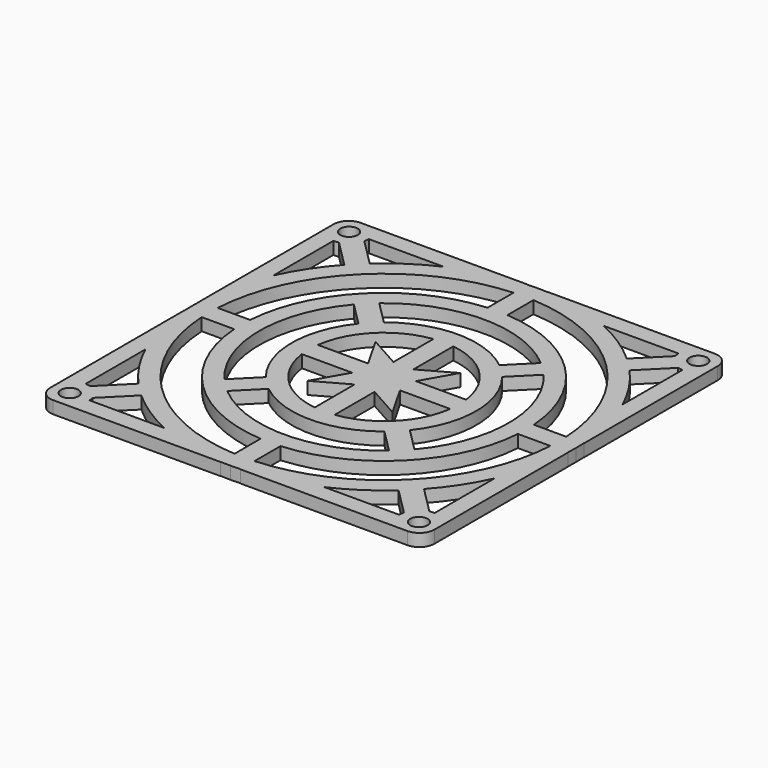
from build123d import *

# Parameters (mm, degrees)
F0_R     = 1.75
F1_DEPTH = 2.5


with BuildPart() as f1:
    # F0 (on Top) → F1 (new body)
    with BuildSketch(Plane.XY):
        with BuildLine():
            ThreePointArc((-38.5, -35.5), (-37.62132, -37.62132), (-35.5, -38.5))
            Line((-35.5, -38.5), (-2, -38.5))
            Line((-2, -38.5), (-2, -38.448017))
            ThreePointArc((-2, -38.448017), (-1.000338, -38.487002), (0, -38.5))
            ThreePointArc((0, -38.5), (1.000338, -38.487002), (2, -38.448017))
            Line((2, -38.448017), (2, -38.5))
            Line((2, -38.5), (35.5, -38.5))
            ThreePointArc((35.5, -38.5), (37.62132, -37.62132), (38.5, -35.5))
            Line((38.5, -35.5), (38.5, -2))
            Line((38.5, -2), (38.448017, -2))
            ThreePointArc((38.448017, -2), (38.487002, -1.000338), (38.5, 0))
            ThreePointArc((38.5, 0), (38.487002, 1.000338), (38.448017, 2))
            Line((38.448017, 2), (38.5, 2))
            Line((38.5, 2), (38.5, 35.5))
            ThreePointArc((38.5, 35.5), (37.62132, 37.62132), (35.5, 38.5))
            Line((35.5, 38.5), (2, 38.5))
            Line((2, 38.5), (2, 38.448017))
            ThreePointArc((2, 38.448017), (1.000338, 38.487002), (0, 38.5))
            ThreePointArc((0, 38.5), (-1.000338, 38.487002), (-2, 38.448017))
            Line((-2, 38.448017), (-2, 38.5))
            Line((-2, 38.5), (-35.5, 38.5))
            ThreePointArc((-35.5, 38.5), (-37.62132, 37.62132), (-38.5, 35.5))
            Line((-38.5, 35.5), (-38.5, 2))
            Line((-38.5, 2), (-38.448017, 2))
            ThreePointArc((-38.448017, 2), (-38.487002, 1.000338), (-38.5, 0))
            ThreePointArc((-38.5, 0), (-38.487002, -1.000338), (-38.448017, -2))
            Line((-38.448017, -2), (-38.5, -2))
            Line((-38.5, -2), (-38.5, -35.5))
        make_face()
        with Locations((-35, -35)):
            Circle(F0_R, mode=Mode.SUBTRACT)
        with BuildLine():
            Line((-16.039015, -35), (-31.045212, -35))
            ThreePointArc((-31.045212, -35), (-31.075605, -34.510637), (-31.166319, -34.028796))
            Line((-31.166319, -34.028796), (-25.754724, -28.617201))
            ThreePointArc((-25.754724, -28.617201), (-21.139162, -32.177412), (-16.039015, -35))
        make_face(mode=Mode.SUBTRACT)
        with BuildLine():
            ThreePointArc((-33.974785, -31.180408), (-34.482954, -31.079157), (-35, -31.045212))
            Line((-35, -31.045212), (-35, -16.039015))
            ThreePointArc((-35, -16.039015), (-32.164167, -21.159309), (-28.584922, -25.790545))
            Line((-28.584922, -25.790545), (-33.974785, -31.180408))
        make_face(mode=Mode.SUBTRACT)
        with BuildLine():
            Line((-2, -28.429738), (-2, -34.94281))
            ThreePointArc((-2, -34.94281), (-24.748737, -24.748737), (-34.94281, -2))
            Line((-34.94281, -2), (-28.429738, -2))
            ThreePointArc((-28.429738, -2), (-20.152543, -20.152543), (-2, -28.429738))
        make_face(mode=Mode.SUBTRACT)
        with BuildLine():
            Line((-2, -4.862478), (-2, -14.866069))
            ThreePointArc((-2, -14.866069), (-10.606602, -10.606602), (-14.866069, -2))
            Line((-14.866069, -2), (-4.794377, -2))
            Line((-4.794377, -2), (-8.49896, -8.49896))
            Line((-8.49896, -8.49896), (-2, -4.862478))
        make_face(mode=Mode.SUBTRACT)
        with BuildLine():
            ThreePointArc((-11.571705, -14.434183), (0.024219, -18.499984), (11.609459, -14.403835))
            Line((11.609459, -14.403835), (16.22518, -19.019557))
            ThreePointArc((16.22518, -19.019557), (0.024155, -24.999988), (-16.188397, -19.050874))
            Line((-16.188397, -19.050874), (-11.571705, -14.434183))
        make_face(mode=Mode.SUBTRACT)
        with BuildLine():
            Line((25.790545, -28.584922), (31.180408, -33.974785))
            ThreePointArc((31.180408, -33.974785), (31.079157, -34.482954), (31.045212, -35))
            Line((31.045212, -35), (16.039015, -35))
            ThreePointArc((16.039015, -35), (21.159309, -32.164167), (25.790545, -28.584922))
        make_face(mode=Mode.SUBTRACT)
        with Locations((35, -35)):
            Circle(F0_R, mode=Mode.SUBTRACT)
        with BuildLine():
            Line((35, -16.039015), (35, -31.045212))
            ThreePointArc((35, -31.045212), (34.510637, -31.075605), (34.028796, -31.166319))
            Line((34.028796, -31.166319), (28.617201, -25.754724))
            ThreePointArc((28.617201, -25.754724), (32.177412, -21.139162), (35, -16.039015))
        make_face(mode=Mode.SUBTRACT)
        with BuildLine():
            ThreePointArc((2, -28.429738), (20.152543, -20.152543), (28.429738, -2))
            Line((28.429738, -2), (34.94281, -2))
            ThreePointArc((34.94281, -2), (24.748737, -24.748737), (2, -34.94281))
            Line((2, -34.94281), (2, -28.429738))
        make_face(mode=Mode.SUBTRACT)
        with BuildLine():
            ThreePointArc((14.866069, -2), (10.606602, -10.606602), (2, -14.866069))
            Line((2, -14.866069), (2, -4.862478))
            Line((2, -4.862478), (8.49896, -8.49896))
            Line((8.49896, -8.49896), (4.794377, -2))
            Line((4.794377, -2), (14.866069, -2))
        make_face(mode=Mode.SUBTRACT)
        with BuildLine():
            ThreePointArc((-19.019557, -16.22518), (-25, 0), (-19.019557, 16.22518))
            Line((-19.019557, 16.22518), (-14.403835, 11.609459))
            ThreePointArc((-14.403835, 11.609459), (-18.5, 0), (-14.403835, -11.609459))
            Line((-14.403835, -11.609459), (-19.019557, -16.22518))
        make_face(mode=Mode.SUBTRACT)
        with BuildLine():
            ThreePointArc((-14.866069, 2), (-10.606602, 10.606602), (-2, 14.866069))
            Line((-2, 14.866069), (-2, 4.862478))
            Line((-2, 4.862478), (-8.49896, 8.49896))
            Line((-8.49896, 8.49896), (-4.794377, 2))
            Line((-4.794377, 2), (-14.866069, 2))
        make_face(mode=Mode.SUBTRACT)
        with BuildLine():
            ThreePointArc((-34.94281, 2), (-24.748737, 24.748737), (-2, 34.94281))
            Line((-2, 34.94281), (-2, 28.429738))
            ThreePointArc((-2, 28.429738), (-20.152543, 20.152543), (-28.429738, 2))
            Line((-28.429738, 2), (-34.94281, 2))
        make_face(mode=Mode.SUBTRACT)
        with BuildLine():
            Line((-33.974785, 31.180408), (-28.584922, 25.790545))
            ThreePointArc((-28.584922, 25.790545), (-32.164167, 21.159309), (-35, 16.039015))
            Line((-35, 16.039015), (-35, 31.045212))
            ThreePointArc((-35, 31.045212), (-34.482954, 31.079157), (-33.974785, 31.180408))
        make_face(mode=Mode.SUBTRACT)
        with Locations((-35, 35)):
            Circle(F0_R, mode=Mode.SUBTRACT)
        with BuildLine():
            ThreePointArc((-31.166319, 34.028796), (-31.075605, 34.510637), (-31.045212, 35))
            Line((-31.045212, 35), (-16.039015, 35))
            ThreePointArc((-16.039015, 35), (-21.139162, 32.177412), (-25.754724, 28.617201))
            Line((-25.754724, 28.617201), (-31.166319, 34.028796))
        make_face(mode=Mode.SUBTRACT)
        with BuildLine():
            ThreePointArc((2, 14.866069), (10.606602, 10.606602), (14.866069, 2))
            Line((14.866069, 2), (4.794377, 2))
            Line((4.794377, 2), (8.49896, 8.49896))
            Line((8.49896, 8.49896), (2, 4.862478))
            Line((2, 4.862478), (2, 14.866069))
        make_face(mode=Mode.SUBTRACT)
        with BuildLine():
            ThreePointArc((28.429738, 2), (20.152543, 20.152543), (2, 28.429738))
            Line((2, 28.429738), (2, 34.94281))
            ThreePointArc((2, 34.94281), (24.748737, 24.748737), (34.94281, 2))
            Line((34.94281, 2), (28.429738, 2))
        make_face(mode=Mode.SUBTRACT)
        with BuildLine():
            ThreePointArc((14.434183, -11.571705), (18.5, 0), (14.434183, 11.571705))
            Line((14.434183, 11.571705), (19.050874, 16.188397))
            ThreePointArc((19.050874, 16.188397), (25, 0), (19.050874, -16.188397))
            Line((19.050874, -16.188397), (14.434183, -11.571705))
        make_face(mode=Mode.SUBTRACT)
        with BuildLine():
            ThreePointArc((11.609459, 14.403835), (0.024219, 18.499984), (-11.571705, 14.434183))
            Line((-11.571705, 14.434183), (-16.188397, 19.050874))
            ThreePointArc((-16.188397, 19.050874), (0.024155, 24.999988), (16.22518, 19.019557))
            Line((16.22518, 19.019557), (11.609459, 14.403835))
        make_face(mode=Mode.SUBTRACT)
        with BuildLine():
            ThreePointArc((34.028796, 31.166319), (34.510637, 31.075605), (35, 31.045212))
            Line((35, 31.045212), (35, 16.039015))
            ThreePointArc((35, 16.039015), (32.177412, 21.139162), (28.617201, 25.754724))
            Line((28.617201, 25.754724), (34.028796, 31.166319))
        make_face(mode=Mode.SUBTRACT)
        with BuildLine():
            ThreePointArc((25.790545, 28.584922), (21.159309, 32.164167), (16.039015, 35))
            Line((16.039015, 35), (31.045212, 35))
            ThreePointArc((31.045212, 35), (31.079157, 34.482954), (31.180408, 33.974785))
            Line((31.180408, 33.974785), (25.790545, 28.584922))
        make_face(mode=Mode.SUBTRACT)
        with Locations((35, 35)):
            Circle(F0_R, mode=Mode.SUBTRACT)
    extrude(amount=F1_DEPTH)


solid = f1.part
